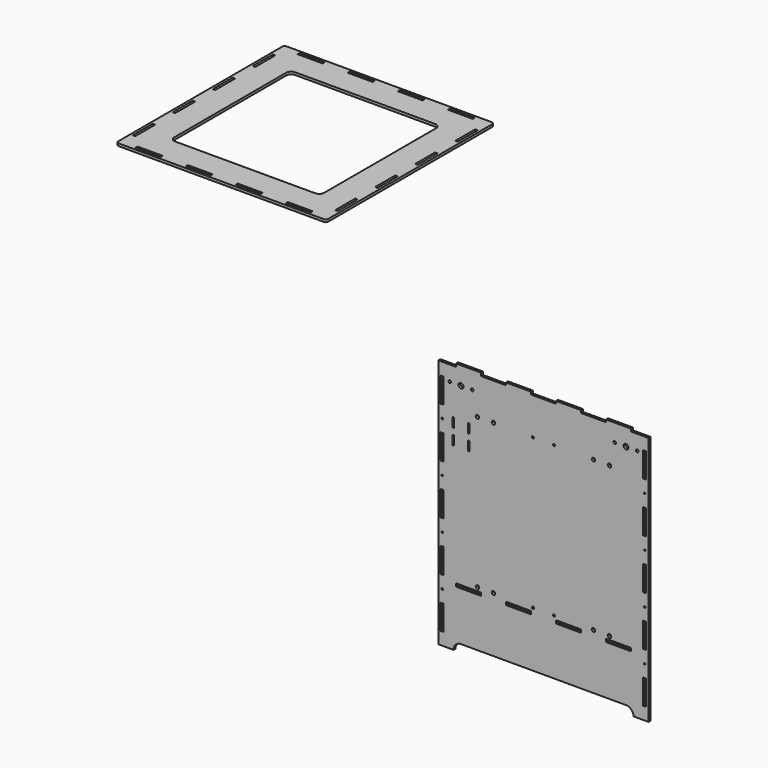
from build123d import *

# Parameters (mm, degrees)
F0_W     = 6
F0_H     = 50
F0_R     = 1.55
F0_W_2   = 50
F0_H_2   = 6
F0_R_2   = 3.5
F0_R_3   = 2.1
F0_R_4   = 2.6
F0_R_5   = 5
F6_DEPTH = 5
F7_W     = 50
F7_H     = 5
F7_W_2   = 5
F7_H_2   = 50
F8_DEPTH = 5


with BuildPart() as f6:
    # F0 (on Front) → F6 (new body)
    with BuildSketch(Plane.XZ):
        with BuildLine():
            Line((0, 500), (0, 0))
            Line((0, 0), (30, 0))
            ThreePointArc((30, 0), (34.393398, 10.606602), (45, 15))
            Line((45, 15), (375, 15))
            ThreePointArc((375, 15), (385.606602, 10.606602), (390, 0))
            Line((390, 0), (420, 0))
            Line((420, 0), (420, 500))
            Line((420, 500), (385, 500))
            Line((385, 500), (385, 505))
            Line((385, 505), (335, 505))
            Line((335, 505), (335, 500))
            Line((335, 500), (285, 500))
            Line((285, 500), (285, 505))
            Line((285, 505), (235, 505))
            Line((235, 505), (235, 500))
            Line((235, 500), (185, 500))
            Line((185, 500), (185, 505))
            Line((185, 505), (135, 505))
            Line((135, 505), (135, 500))
            Line((135, 500), (85, 500))
            Line((85, 500), (85, 506))
            Line((85, 506), (35, 506))
            Line((35, 506), (35, 500))
            Line((35, 500), (0, 500))
        make_face()
        with Locations((7.5, 50)):
            Rectangle(F0_W, F0_H, mode=Mode.SUBTRACT)
        with Locations((7.5, 100)):
            Circle(F0_R, mode=Mode.SUBTRACT)
        with Locations((60, 116)):
            Rectangle(F0_W_2, F0_H_2, mode=Mode.SUBTRACT)
        with Locations((78, 126)):
            Circle(F0_R_2, mode=Mode.SUBTRACT)
        with Locations((110, 126)):
            Circle(F0_R_2, mode=Mode.SUBTRACT)
        with Locations((160, 116)):
            Rectangle(F0_W_2, F0_H_2, mode=Mode.SUBTRACT)
        with Locations((189, 126)):
            Circle(F0_R_3, mode=Mode.SUBTRACT)
        with Locations((7.5, 150)):
            Rectangle(F0_W, F0_H, mode=Mode.SUBTRACT)
        with Locations((7.5, 200)):
            Circle(F0_R, mode=Mode.SUBTRACT)
        with Locations((7.5, 250)):
            Rectangle(F0_W, F0_H, mode=Mode.SUBTRACT)
        with Locations((231, 126)):
            Circle(F0_R_3, mode=Mode.SUBTRACT)
        with Locations((260, 116)):
            Rectangle(F0_W_2, F0_H_2, mode=Mode.SUBTRACT)
        with Locations((310, 126)):
            Circle(F0_R_2, mode=Mode.SUBTRACT)
        with Locations((412.5, 50)):
            Rectangle(F0_W, F0_H, mode=Mode.SUBTRACT)
        with Locations((342, 126)):
            Circle(F0_R_2, mode=Mode.SUBTRACT)
        with Locations((360, 116)):
            Rectangle(F0_W_2, F0_H_2, mode=Mode.SUBTRACT)
        with Locations((412.5, 100)):
            Circle(F0_R, mode=Mode.SUBTRACT)
        with Locations((412.5, 150)):
            Rectangle(F0_W, F0_H, mode=Mode.SUBTRACT)
        with Locations((412.5, 200)):
            Circle(F0_R, mode=Mode.SUBTRACT)
        with Locations((412.5, 250)):
            Rectangle(F0_W, F0_H, mode=Mode.SUBTRACT)
        with Locations((7.5, 300)):
            Circle(F0_R, mode=Mode.SUBTRACT)
        with Locations((7.5, 350)):
            Rectangle(F0_W, F0_H, mode=Mode.SUBTRACT)
        with BuildLine():
            ThreePointArc((27.95, 377), (29.5, 378.55), (31.05, 377))
            Line((31.05, 377), (31.05, 361))
            ThreePointArc((31.05, 361), (29.5, 359.45), (27.95, 361))
            Line((27.95, 361), (27.95, 377))
        make_face(mode=Mode.SUBTRACT)
        with BuildLine():
            ThreePointArc((58.95, 377), (60.5, 378.55), (62.05, 377))
            Line((62.05, 377), (62.05, 361))
            ThreePointArc((62.05, 361), (60.5, 359.45), (58.95, 361))
            Line((58.95, 361), (58.95, 377))
        make_face(mode=Mode.SUBTRACT)
        with Locations((7.5, 400)):
            Circle(F0_R, mode=Mode.SUBTRACT)
        with BuildLine():
            ThreePointArc((27.95, 408), (29.5, 409.55), (31.05, 408))
            Line((31.05, 408), (31.05, 392))
            ThreePointArc((31.05, 392), (29.5, 390.45), (27.95, 392))
            Line((27.95, 392), (27.95, 408))
        make_face(mode=Mode.SUBTRACT)
        with BuildLine():
            ThreePointArc((58.95, 408), (60.5, 409.55), (62.05, 408))
            Line((62.05, 408), (62.05, 392))
            ThreePointArc((62.05, 392), (60.5, 390.45), (58.95, 392))
            Line((58.95, 392), (58.95, 408))
        make_face(mode=Mode.SUBTRACT)
        with Locations((78, 426)):
            Circle(F0_R_2, mode=Mode.SUBTRACT)
        with Locations((7.5, 450)):
            Rectangle(F0_W, F0_H, mode=Mode.SUBTRACT)
        with Locations((22.5, 470)):
            Circle(F0_R_4, mode=Mode.SUBTRACT)
        with Locations((45, 470)):
            Circle(F0_R_5, mode=Mode.SUBTRACT)
        with Locations((67.5, 470)):
            Circle(F0_R_4, mode=Mode.SUBTRACT)
        with Locations((110, 426)):
            Circle(F0_R_2, mode=Mode.SUBTRACT)
        with Locations((189, 426)):
            Circle(F0_R_3, mode=Mode.SUBTRACT)
        with Locations((412.5, 300)):
            Circle(F0_R, mode=Mode.SUBTRACT)
        with Locations((412.5, 350)):
            Rectangle(F0_W, F0_H, mode=Mode.SUBTRACT)
        with Locations((231, 426)):
            Circle(F0_R_3, mode=Mode.SUBTRACT)
        with Locations((310, 426)):
            Circle(F0_R_2, mode=Mode.SUBTRACT)
        with Locations((342, 426)):
            Circle(F0_R_2, mode=Mode.SUBTRACT)
        with Locations((412.5, 400)):
            Circle(F0_R, mode=Mode.SUBTRACT)
        with Locations((352.5, 470)):
            Circle(F0_R_4, mode=Mode.SUBTRACT)
        with Locations((375, 470)):
            Circle(F0_R_5, mode=Mode.SUBTRACT)
        with Locations((412.5, 450)):
            Rectangle(F0_W, F0_H, mode=Mode.SUBTRACT)
        with Locations((397.5, 470)):
            Circle(F0_R_4, mode=Mode.SUBTRACT)
    extrude(amount=F6_DEPTH)


with BuildPart() as f8:
    # F7 (on offset) → F8 (new body)
    with BuildSketch(Plane.XY.offset(600)):
        with BuildLine():
            ThreePointArc((-727.524481, 103.692755), (-726.060015, 100.157221), (-722.524481, 98.692755))
            Line((-722.524481, 98.692755), (-312.524481, 98.692755))
            ThreePointArc((-312.524481, 98.692755), (-308.988947, 100.157221), (-307.524481, 103.692755))
            Line((-307.524481, 103.692755), (-307.524481, 513.692755))
            ThreePointArc((-307.524481, 513.692755), (-308.988947, 517.228289), (-312.524481, 518.692755))
            Line((-312.524481, 518.692755), (-722.524481, 518.692755))
            ThreePointArc((-722.524481, 518.692755), (-726.060015, 517.228289), (-727.524481, 513.692755))
            Line((-727.524481, 513.692755), (-727.524481, 103.692755))
        make_face()
        with Locations((-667.524481, 106.192755)):
            Rectangle(F7_W, F7_H, mode=Mode.SUBTRACT)
        with Locations((-720.024481, 158.692755)):
            Rectangle(F7_W_2, F7_H_2, mode=Mode.SUBTRACT)
        with Locations((-567.524481, 106.192755)):
            Rectangle(F7_W, F7_H, mode=Mode.SUBTRACT)
        with Locations((-720.024481, 258.692755)):
            Rectangle(F7_W_2, F7_H_2, mode=Mode.SUBTRACT)
        with Locations((-467.524481, 106.192755)):
            Rectangle(F7_W, F7_H, mode=Mode.SUBTRACT)
        with Locations((-367.524481, 106.192755)):
            Rectangle(F7_W, F7_H, mode=Mode.SUBTRACT)
        with Locations((-315.024481, 158.692755)):
            Rectangle(F7_W_2, F7_H_2, mode=Mode.SUBTRACT)
        with Locations((-315.024481, 258.692755)):
            Rectangle(F7_W_2, F7_H_2, mode=Mode.SUBTRACT)
        with Locations((-720.024481, 358.692755)):
            Rectangle(F7_W_2, F7_H_2, mode=Mode.SUBTRACT)
        with BuildLine():
            ThreePointArc((-667.524481, 448.692755), (-664.595549, 455.763823), (-657.524481, 458.692755))
            Line((-657.524481, 458.692755), (-377.524481, 458.692755))
            ThreePointArc((-377.524481, 458.692755), (-370.453413, 455.763823), (-367.524481, 448.692755))
            Line((-367.524481, 448.692755), (-367.524481, 168.692755))
            ThreePointArc((-367.524481, 168.692755), (-370.453413, 161.621687), (-377.524481, 158.692755))
            Line((-377.524481, 158.692755), (-657.524481, 158.692755))
            ThreePointArc((-657.524481, 158.692755), (-664.595549, 161.621687), (-667.524481, 168.692755))
            Line((-667.524481, 168.692755), (-667.524481, 448.692755))
        make_face(mode=Mode.SUBTRACT)
        with Locations((-720.024481, 458.692755)):
            Rectangle(F7_W_2, F7_H_2, mode=Mode.SUBTRACT)
        with Locations((-667.524481, 511.192755)):
            Rectangle(F7_W, F7_H, mode=Mode.SUBTRACT)
        with Locations((-567.524481, 511.192755)):
            Rectangle(F7_W, F7_H, mode=Mode.SUBTRACT)
        with Locations((-315.024481, 358.692755)):
            Rectangle(F7_W_2, F7_H_2, mode=Mode.SUBTRACT)
        with Locations((-467.524481, 511.192755)):
            Rectangle(F7_W, F7_H, mode=Mode.SUBTRACT)
        with Locations((-315.024481, 458.692755)):
            Rectangle(F7_W_2, F7_H_2, mode=Mode.SUBTRACT)
        with Locations((-367.524481, 511.192755)):
            Rectangle(F7_W, F7_H, mode=Mode.SUBTRACT)
    extrude(amount=F8_DEPTH)


solid = Compound([f6.part, f8.part])
